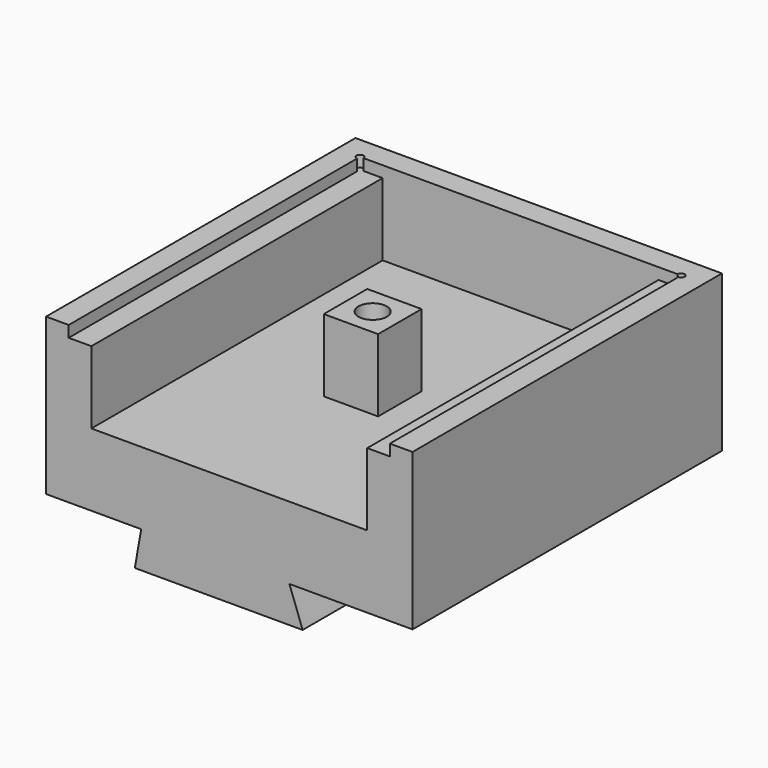
from build123d import *

# Parameters (mm, degrees)
F0_W     = 38.6842
F0_H     = 51.054
F0_W_2   = 7.62
F0_H_2   = 7.62
F0_R     = 1.9812
F0_R_2   = 1.3843
F1_DEPTH = 26.9875
F2_DEPTH = 1.5875
F3_DEPTH = 11.7475
F4_DEPTH = 4.1275
F6_DEPTH = 54.23
F8_DEPTH = 4.0386


with BuildPart() as f1:
    # F0 (on Top) → F1 (new body)
    with BuildSketch(Plane.XY):
        with Locations((0.4191, -0.127)):
            Rectangle(F0_W, F0_H)
        Rectangle(F0_W_2, F0_H_2, mode=Mode.SUBTRACT)
        with BuildLine():
            Line((26.1112, 28.575), (-25.273, 28.575))
            Line((-25.273, 28.575), (-25.273, -25.654))
            Line((-25.273, -25.654), (-22.098, -25.654))
            Line((-22.098, -25.654), (-22.098, 24.9047))
            ThreePointArc((-22.098, 24.9047), (-22.4482299887, 25.7502299887), (-21.6027, 25.4))
            Line((-21.6027, 25.4), (-18.923, 25.4))
            Line((-18.923, 25.4), (19.7612, 25.4))
            Line((19.7612, 25.4), (22.4409, 25.4))
            ThreePointArc((22.4409, 25.4), (22.9362, 25.8953), (23.4315, 25.4))
            ThreePointArc((23.4315, 25.4), (23.2864299887, 25.0497700113), (22.9362, 24.9047))
            Line((22.9362, 24.9047), (22.9362, -25.654))
            Line((22.9362, -25.654), (26.1112, -25.654))
            Line((26.1112, -25.654), (26.1112, 28.575))
        make_face()
        with BuildLine():
            Line((-22.098, 24.9047), (-22.098, -25.654))
            Line((-22.098, -25.654), (-18.923, -25.654))
            Line((-18.923, -25.654), (-18.923, 25.4))
            Line((-18.923, 25.4), (-21.6027, 25.4))
            ThreePointArc((-21.6027, 25.4), (-21.7477700113, 25.0497700113), (-22.098, 24.9047))
        make_face()
        with BuildLine():
            Line((19.7612, -25.654), (22.9362, -25.654))
            Line((22.9362, -25.654), (22.9362, 24.9047))
            ThreePointArc((22.9362, 24.9047), (22.5859700113, 25.0497700113), (22.4409, 25.4))
            Line((22.4409, 25.4), (19.7612, 25.4))
            Line((19.7612, 25.4), (19.7612, -25.654))
        make_face()
        Rectangle(F0_W_2, F0_H_2)
        Circle(F0_R, mode=Mode.SUBTRACT)
        Circle(F0_R)
        Circle(F0_R_2, mode=Mode.SUBTRACT)
        with BuildLine():
            ThreePointArc((-21.6027, 25.4), (-22.4482299887, 25.7502299887), (-22.098, 24.9047))
            Line((-22.098, 24.9047), (-22.098, 25.4))
            Line((-22.098, 25.4), (-21.6027, 25.4))
        make_face()
        with BuildLine():
            Line((22.9362, 25.4), (22.9362, 24.9047))
            ThreePointArc((22.9362, 24.9047), (23.2864299887, 25.0497700113), (23.4315, 25.4))
            ThreePointArc((23.4315, 25.4), (22.9362, 25.8953), (22.4409, 25.4))
            Line((22.4409, 25.4), (22.9362, 25.4))
        make_face()
        with BuildLine():
            Line((-22.098, 25.4), (-22.098, 24.9047))
            ThreePointArc((-22.098, 24.9047), (-21.7477700113, 25.0497700113), (-21.6027, 25.4))
            Line((-21.6027, 25.4), (-22.098, 25.4))
        make_face()
        with BuildLine():
            ThreePointArc((22.4409, 25.4), (22.5859700113, 25.0497700113), (22.9362, 24.9047))
            Line((22.9362, 24.9047), (22.9362, 25.4))
            Line((22.9362, 25.4), (22.4409, 25.4))
        make_face()
    extrude(amount=-F1_DEPTH)

    # F0 (on Top) → F2 (cut)
    with BuildSketch(Plane.XY):
        with Locations((0.4191, -0.127)):
            Rectangle(F0_W, F0_H)
        Rectangle(F0_W_2, F0_H_2, mode=Mode.SUBTRACT)
        with BuildLine():
            Line((-22.098, 24.9047), (-22.098, -25.654))
            Line((-22.098, -25.654), (-18.923, -25.654))
            Line((-18.923, -25.654), (-18.923, 25.4))
            Line((-18.923, 25.4), (-21.6027, 25.4))
            ThreePointArc((-21.6027, 25.4), (-21.7477700113, 25.0497700113), (-22.098, 24.9047))
        make_face()
        with BuildLine():
            Line((19.7612, -25.654), (22.9362, -25.654))
            Line((22.9362, -25.654), (22.9362, 24.9047))
            ThreePointArc((22.9362, 24.9047), (22.5859700113, 25.0497700113), (22.4409, 25.4))
            Line((22.4409, 25.4), (19.7612, 25.4))
            Line((19.7612, 25.4), (19.7612, -25.654))
        make_face()
        Rectangle(F0_W_2, F0_H_2)
        Circle(F0_R, mode=Mode.SUBTRACT)
        Circle(F0_R)
        Circle(F0_R_2, mode=Mode.SUBTRACT)
        with BuildLine():
            Line((22.9362, 25.4), (22.9362, 24.9047))
            ThreePointArc((22.9362, 24.9047), (23.2864299887, 25.0497700113), (23.4315, 25.4))
            ThreePointArc((23.4315, 25.4), (22.9362, 25.8953), (22.4409, 25.4))
            Line((22.4409, 25.4), (22.9362, 25.4))
        make_face()
        with BuildLine():
            ThreePointArc((-21.6027, 25.4), (-22.4482299887, 25.7502299887), (-22.098, 24.9047))
            Line((-22.098, 24.9047), (-22.098, 25.4))
            Line((-22.098, 25.4), (-21.6027, 25.4))
        make_face()
        with BuildLine():
            ThreePointArc((22.4409, 25.4), (22.5859700113, 25.0497700113), (22.9362, 24.9047))
            Line((22.9362, 24.9047), (22.9362, 25.4))
            Line((22.9362, 25.4), (22.4409, 25.4))
        make_face()
        with BuildLine():
            Line((-22.098, 25.4), (-22.098, 24.9047))
            ThreePointArc((-22.098, 24.9047), (-21.7477700113, 25.0497700113), (-21.6027, 25.4))
            Line((-21.6027, 25.4), (-22.098, 25.4))
        make_face()
    extrude(amount=-F2_DEPTH, mode=Mode.SUBTRACT)

    # F0 (on Top) → F3 (cut)
    with BuildSketch(Plane.XY):
        with Locations((0.4191, -0.127)):
            Rectangle(F0_W, F0_H)
        Rectangle(F0_W_2, F0_H_2, mode=Mode.SUBTRACT)
    extrude(amount=-F3_DEPTH, mode=Mode.SUBTRACT)

    # F0 (on Top) → F4 (cut)
    with BuildSketch(Plane.XY):
        Circle(F0_R)
        Circle(F0_R_2, mode=Mode.SUBTRACT)
    extrude(amount=-F4_DEPTH, mode=Mode.SUBTRACT)

    # F5 (on face) → F6 (cut, through all)
    with BuildSketch(Plane.XZ.offset(25.654)):
        Polygon((-11.933798938, -21.9075), (-25.273, -21.9075), (-25.273, -26.9875), (-12.82954, -26.9875), align=None)
        Polygon((26.1112, -26.9875), (26.1112, -21.9075), (8.8520512099, -21.9075), (10.70102, -26.9875), align=None)
    extrude(amount=-F6_DEPTH, mode=Mode.SUBTRACT)

    # F7 (on face) → F8 (cut)
    with BuildSketch(Plane(origin=(0, 0, -26.9875), x_dir=(1, 0, 0), z_dir=(0, 0, -1))):
        with BuildLine():
            ThreePointArc((6.6675, 1.5875), (7.7900320151, 1.1225320151), (8.255, 0))
            ThreePointArc((8.255, 0), (7.7900320151, -1.1225320151), (6.6675, -1.5875))
            Line((6.6675, -1.5875), (10.70102, -1.5875))
            Line((10.70102, -1.5875), (10.70102, 1.5875))
            Line((10.70102, 1.5875), (6.6675, 1.5875))
        make_face()
        with BuildLine():
            ThreePointArc((6.6675, -1.5875), (7.7900320151, -1.1225320151), (8.255, 0))
            ThreePointArc((8.255, 0), (7.7900320151, 1.1225320151), (6.6675, 1.5875))
            ThreePointArc((6.6675, 1.5875), (5.08, 0), (6.6675, -1.5875))
        make_face()
    extrude(amount=-F8_DEPTH, mode=Mode.SUBTRACT)


solid = f1.part
